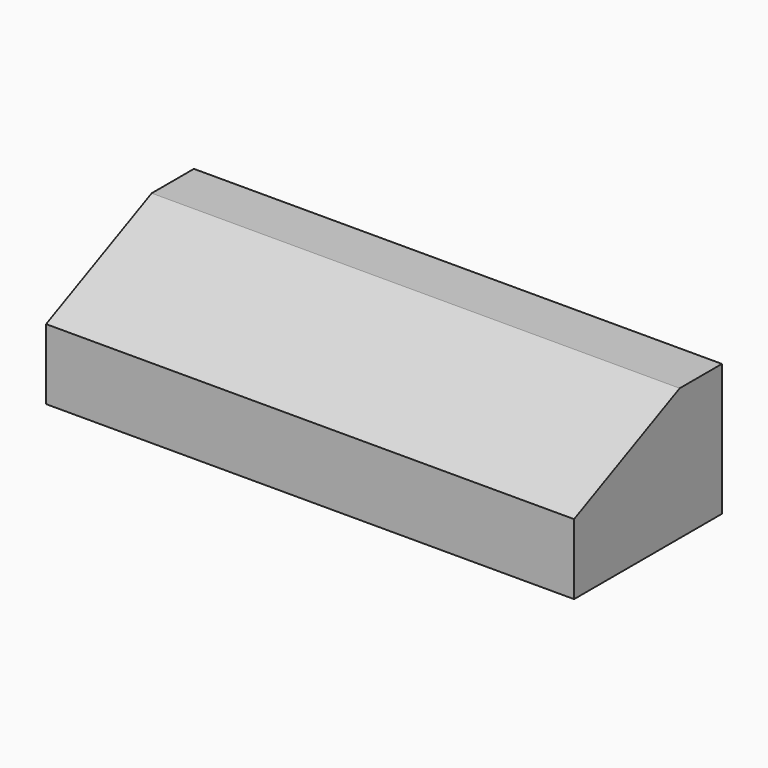
from build123d import *

# Parameters (mm, degrees)
F0_W     = 200
F0_H     = 70
F1_DEPTH = 50
F2_SIZE2 = 23.3153829077
F2_SIZE  = 50


with BuildPart() as f1:
    # F0 (on Top) → F1 (new body)
    with BuildSketch(Plane.XY):
        Rectangle(F0_W, F0_H)
    extrude(amount=F1_DEPTH)

    # F2
    f2_edges = [f1.edges().sort_by_distance(p)[0] for p in [
        (0, -35, 50),
    ]]
    f2_side = f1.faces().sort_by_distance((0, 0, 50))[0]
    chamfer(f2_edges, length=F2_SIZE, length2=F2_SIZE2, reference=f2_side)


solid = f1.part
